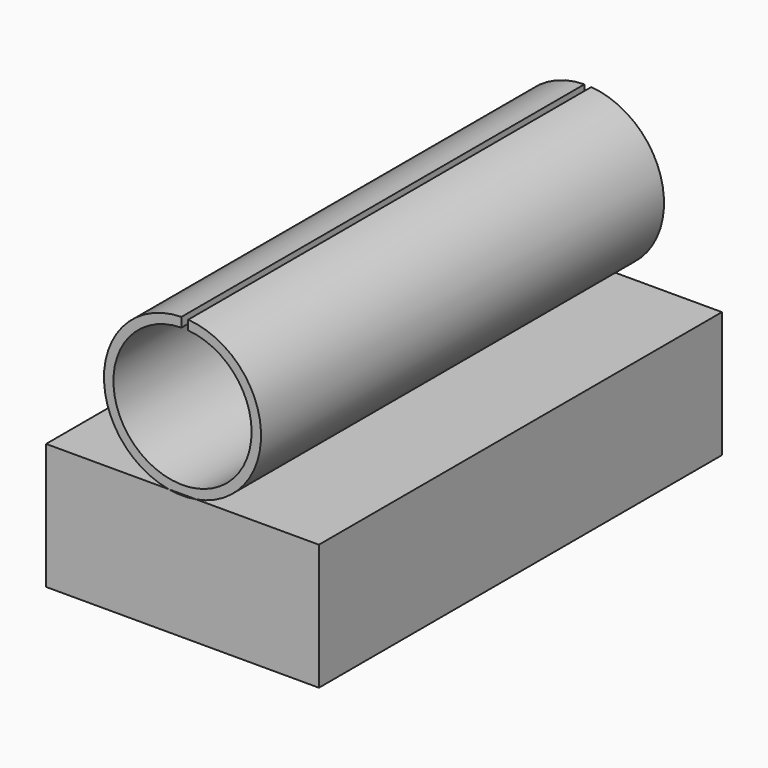
from build123d import *

# Parameters (mm, degrees)
F1_DEPTH = 3048


with BuildPart() as f1:
    # F0 (on Front) → F1 (new body)
    with BuildSketch(Plane.XZ):
        with BuildLine():
            Line((-909.6901716631, 762), (-741.3098283369, 762))
            ThreePointArc((-741.3098283369, 762), (-460.9528590016, 924.8714346976), (-350.3318721082, 1229.6502590179))
            ThreePointArc((-350.3318721082, 1229.6502590179), (-477.4882737869, 1553.1816920849), (-790.9026176537, 1703.5571812073))
            Line((-790.9026176537, 1703.5571812073), (-790.9026176537, 1646.2300479467))
            ThreePointArc((-790.9026176537, 1646.2300479467), (-517.9305855623, 1512.7346187264), (-407.4860057257, 1229.6502590179))
            ThreePointArc((-407.4860057257, 1229.6502590179), (-1118.7146695566, 931.722655453), (-832.1648833793, 1647.6111169205))
            Line((-832.1648833793, 1647.6111169205), (-832.1648833793, 1704.7716425546))
            ThreePointArc((-832.1648833793, 1704.7716425546), (-1299.0696915534, 1268.5924855371), (-909.6901716631, 762))
        make_face()
    extrude(amount=F1_DEPTH)


with BuildPart() as f1b:
    # F0 (on Front) → F1, piece 2 (new body)
    with BuildSketch(Plane.XZ):
        with BuildLine():
            Line((-1651, 0), (0, 0))
            Line((0, 0), (0, 762))
            Line((0, 762), (-741.3098283369, 762))
            ThreePointArc((-741.3098283369, 762), (-825.5, 754.4821311261), (-909.6901716631, 762))
            Line((-909.6901716631, 762), (-1651, 762))
            Line((-1651, 762), (-1651, 0))
        make_face()
    extrude(amount=F1_DEPTH)


solid = Compound([f1.part, f1b.part])
